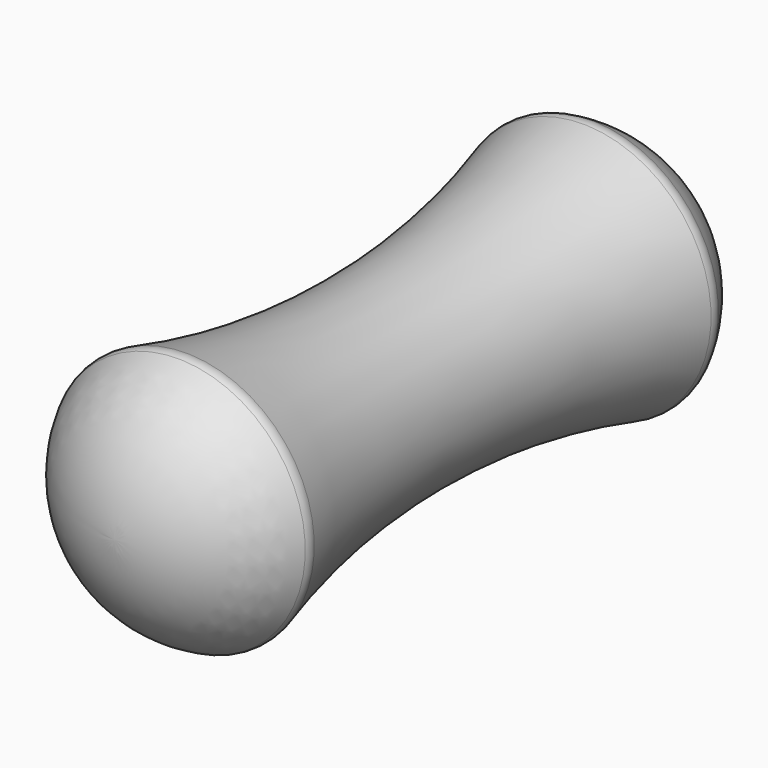
from build123d import *


with BuildPart() as f1:
    # F0 (on Top) → F1 (revolve)
    with BuildSketch(Plane.XY):
        with BuildLine():
            Line((-5.730488, -1.064378), (-5.730488, 7.389319))
            ThreePointArc((-5.730488, 7.389319), (-6.664769, 7.126484), (-7.324975, 6.415083))
            ThreePointArc((-7.324975, 6.415083), (-7.34376, 6.351022), (-7.337628, 6.284546))
            ThreePointArc((-7.337628, 6.284546), (-6.898482, 3.173884), (-7.338247, 0.06331))
            ThreePointArc((-7.338247, 0.06331), (-7.344573, -0.001175), (-7.327402, -0.063653))
            ThreePointArc((-7.327402, -0.063653), (-6.67277, -0.793526), (-5.730488, -1.064378))
        make_face()
    revolve(axis=Axis((-5.730488, 3.162471, 0), (0, -1, 0)))


solid = f1.part
